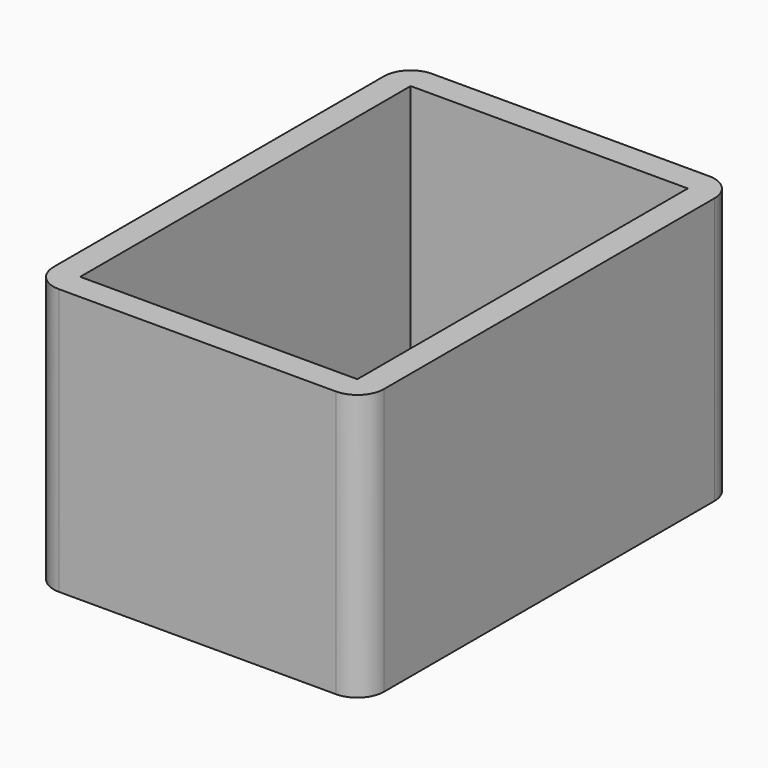
from build123d import *

# Parameters (mm, degrees)
SKETCH_W  = 10.4
SKETCH_H  = 15.5
PAD_DEPTH = 10


with BuildPart() as part:
    # Sketch → Pad (new body)
    with BuildSketch(Plane.XY):
        with BuildLine():
            Line((-6.2, 7.75), (-6.2, -7.75))
            ThreePointArc((-6.2, -7.75), (-5.907107, -8.457107), (-5.2, -8.75))
            Line((-5.2, -8.75), (5.2, -8.75))
            ThreePointArc((5.2, -8.75), (5.907107, -8.457107), (6.2, -7.75))
            Line((6.2, -7.75), (6.2, 7.75))
            ThreePointArc((6.2, 7.75), (5.907107, 8.457107), (5.2, 8.75))
            Line((5.2, 8.75), (-5.2, 8.75))
            ThreePointArc((-5.2, 8.75), (-5.907107, 8.457107), (-6.2, 7.75))
        make_face()
        Rectangle(SKETCH_W, SKETCH_H, mode=Mode.SUBTRACT)
    extrude(amount=PAD_DEPTH)


solid = part.part
